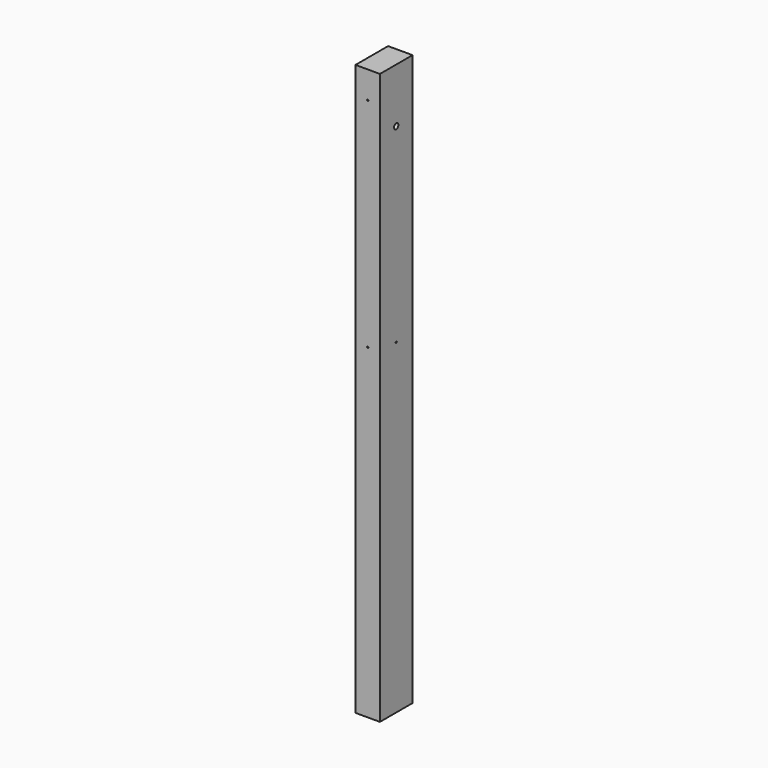
from build123d import *

# Parameters (mm, degrees)
F1_DEPTH = 2100
F3_D     = 5
F3_DEPTH = 25
F3_TIP   = 1.5021515476
F5_D     = 5
F6_D     = 5
F8_D     = 20
F9_D     = 20
F9_DEPTH = 50
F9_TIP   = 6.0086061903


with BuildPart() as f1:
    # F0 (on Top) → F1 (new body)
    with BuildSketch(Plane.XY):
        Polygon((-34.2555230263, 141.6535690603), (-45, 141.6535690603), (-45, -8.3464309397), (45, -8.3464309397), (45, 141.6535690603), (34.2555230263, 141.6535690603), align=None)
    extrude(amount=F1_DEPTH)

    # F3
    with Locations(Plane.YZ.offset(45)):
        with Locations((66.6535690603, 1200)):
            Hole(F3_D / 2, depth=F3_DEPTH)
            with Locations((0, 0, -(F3_DEPTH + F3_TIP / 2))):  # 118° drill point
                Cone(0, F3_D / 2, F3_TIP, mode=Mode.SUBTRACT)

    # F5 (through all)
    with Locations(Plane(origin=(0, 141.6535690603, 0), x_dir=(-1, 0, 0), z_dir=(0, 1, 0))):
        with Locations((0, 2000)):
            Hole(F5_D / 2)

    # F6 (through all)
    with Locations(Plane(origin=(0, 141.6535690603, 0), x_dir=(-1, 0, 0), z_dir=(0, 1, 0))):
        with Locations((0, 1200)):
            Hole(F6_D / 2)

    # F8 (through all)
    with Locations(Plane(origin=(-45, 0, 0), x_dir=(0, -1, 0), z_dir=(-1, 0, 0))):
        with Locations((-66.6535690603, 1900)):
            Hole(F8_D / 2)

    # F9
    with Locations(Plane(origin=(-45, 0, 0), x_dir=(0, -1, 0), z_dir=(-1, 0, 0))):
        with Locations((-66.6535690603, 100)):
            Hole(F9_D / 2, depth=F9_DEPTH)
            with Locations((0, 0, -(F9_DEPTH + F9_TIP / 2))):  # 118° drill point
                Cone(0, F9_D / 2, F9_TIP, mode=Mode.SUBTRACT)


solid = f1.part
